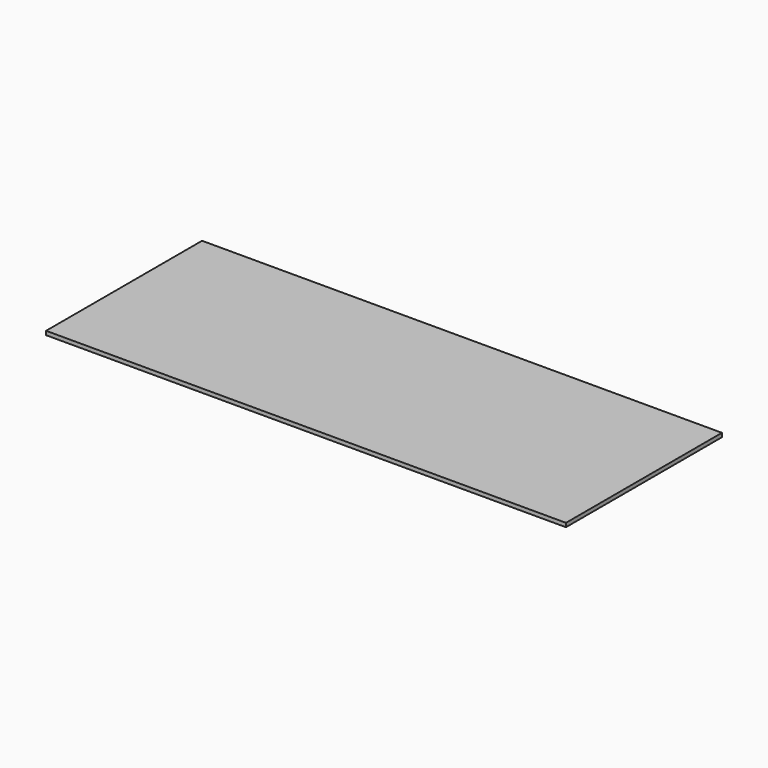
from build123d import *

# Parameters (mm, degrees)
SKETCH_W  = 400
SKETCH_H  = 150
PAD_DEPTH = 3


with BuildPart() as part:
    # Sketch → Pad (new body)
    with BuildSketch(Plane.XY):
        Rectangle(SKETCH_W, SKETCH_H)
    extrude(amount=PAD_DEPTH)


solid = part.part
